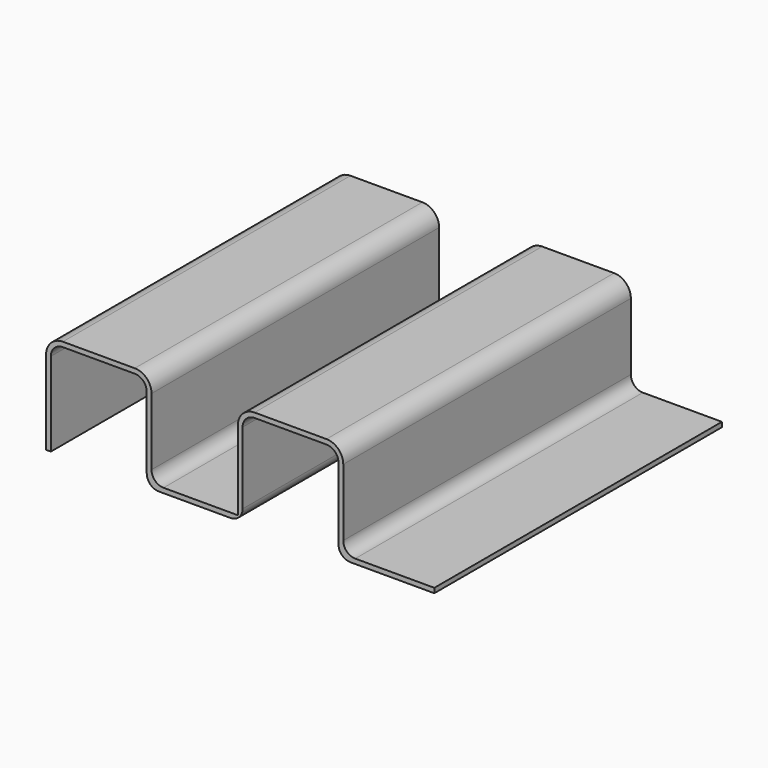
from build123d import *

# Parameters (mm, degrees)
F1_DEPTH = 150
F2_R     = 5


with BuildPart() as f1:
    # F0 (on Front) → F1 (new body)
    with BuildSketch(Plane.XZ):
        with BuildLine():
            ThreePointArc((0, 35), (1.464466, 38.535534), (5, 40))
            Line((5, 40), (35, 40))
            ThreePointArc((35, 40), (38.535534, 38.535534), (40, 35))
            Line((40, 35), (40, 5))
            ThreePointArc((40, 5), (41.464466, 1.464466), (45, 0))
            Line((45, 0), (75, 0))
            ThreePointArc((75, 0), (78.535534, 1.464466), (80, 5))
            Line((80, 5), (80, 35))
            ThreePointArc((80, 35), (81.464466, 38.535534), (85, 40))
            Line((85, 40), (115, 40))
            ThreePointArc((115, 40), (118.535534, 38.535534), (120, 35))
            Line((120, 35), (120, 5))
            ThreePointArc((120, 5), (121.464466, 1.464466), (125, 0))
            Line((125, 0), (160, 0))
            Line((160, 0), (160, 2))
            Line((160, 2), (122, 2))
            Line((122, 2), (122, 35))
            ThreePointArc((122, 35), (119.949747, 39.949747), (115, 42))
            Line((115, 42), (85, 42))
            ThreePointArc((85, 42), (80.050253, 39.949747), (78, 35))
            Line((78, 35), (78, 2))
            Line((78, 2), (42, 2))
            Line((42, 2), (42, 35))
            ThreePointArc((42, 35), (39.949747, 39.949747), (35, 42))
            Line((35, 42), (5, 42))
            ThreePointArc((5, 42), (0.050253, 39.949747), (-2, 35))
            Line((-2, 35), (-2, 0))
            Line((-2, 0), (0, 0))
            Line((0, 0), (0, 35))
        make_face()
    extrude(amount=F1_DEPTH)

    # F2
    f2_edges = [f1.edges().sort_by_distance(p)[0] for p in [
        (42, -75, 2),
        (122, -75, 2),
    ]]
    fillet(f2_edges, radius=F2_R)


solid = f1.part
